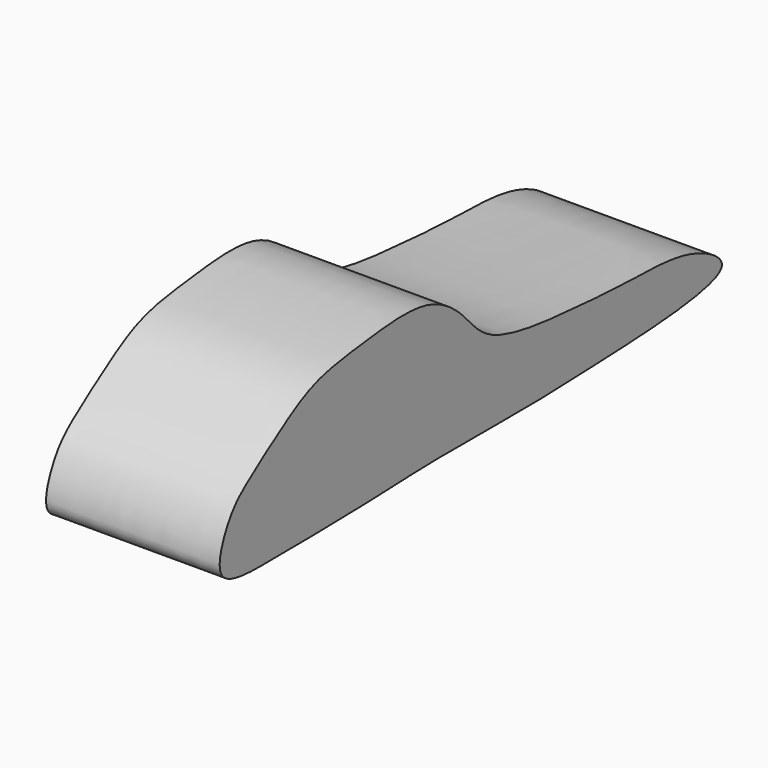
from build123d import *

# Parameters (mm, degrees)
F1_DEPTH = 38.608


with BuildPart() as f1:
    # F0 (on Right) → F1 (new body)
    with BuildSketch(Plane.YZ):
        with BuildLine():
            add(Edge.make_bspline(
                [(72.2504109144, 0), (73.0820604952, 1.7735505612), (63.6910646364, 7.7130574409), (47.0195057844, 7.5535740709), (30.5053535599, 8.6535994918), (7.062905859, 10.8048242179), (0.5754827313, 20.5891318134), (-9.9677024587, 27.8639573201), (-27.4504162362, 25.6583261379), (-40.6506441322, 24.1455867738), (-50.0492671681, 18.3101152546), (-59.7119168818, 11.5966303131), (-64.911727838, 6.9993322776), (-70.1099322768, -6.4904631688), (-51.2305514783, -6.3702275626), (-27.9678089676, -6.2138775118), (-7.4583115481, -5.0809019668), (17.3682530467, -5.5318962304), (36.3781546111, -4.8294761606), (70.6821782423, -3.3443652231), (72.2504109144, 0)],
                knots=[0, 0, 0, 0, 0.0421637298, 0.1006300999, 0.1589462308, 0.2242845954, 0.2700875228, 0.3176947442, 0.3753922493, 0.4261080831, 0.4720915017, 0.5189712478, 0.557180172, 0.6008399999, 0.652949488, 0.7221829104, 0.7859226261, 0.852705637, 0.920492308, 1, 1, 1, 1], degree=3))
        make_face()
    extrude(amount=F1_DEPTH)


solid = f1.part
